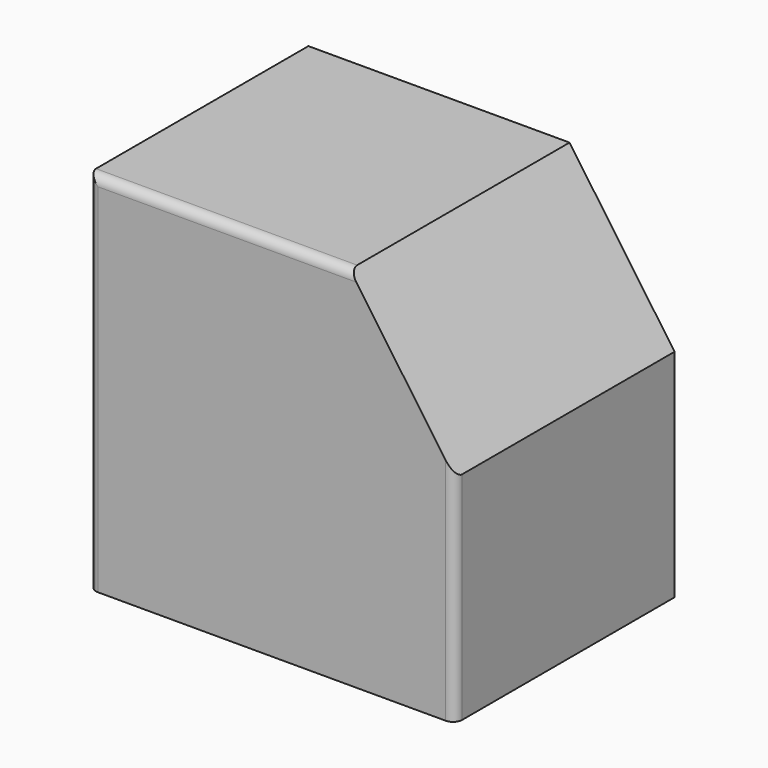
from build123d import *

# Parameters (mm, degrees)
F1_DEPTH = 38.1
F2_R     = 2.54
F3_R     = 2.54


with BuildPart() as f1:
    # F0 (on Front) → F1 (new body, symmetric)
    with BuildSketch(Plane.XZ):
        Polygon((21.662317, 50.8), (-50.8, 50.8), (-50.8, -50.8), (50.8, -50.8), (50.8, 9.187076), align=None)
    extrude(amount=F1_DEPTH, both=True)

    # F2
    f2_edges = [f1.edges().sort_by_distance(p)[0] for p in [
        (-50.8, -38.1, 0),
        (-14.568841, -38.1, 50.8),
    ]]
    fillet(f2_edges, radius=F2_R)

    # F3
    f3_edges = [f1.edges().sort_by_distance(p)[0] for p in [
        (50.8, -38.1, -20.806462),
    ]]
    fillet(f3_edges, radius=F3_R)


solid = f1.part
